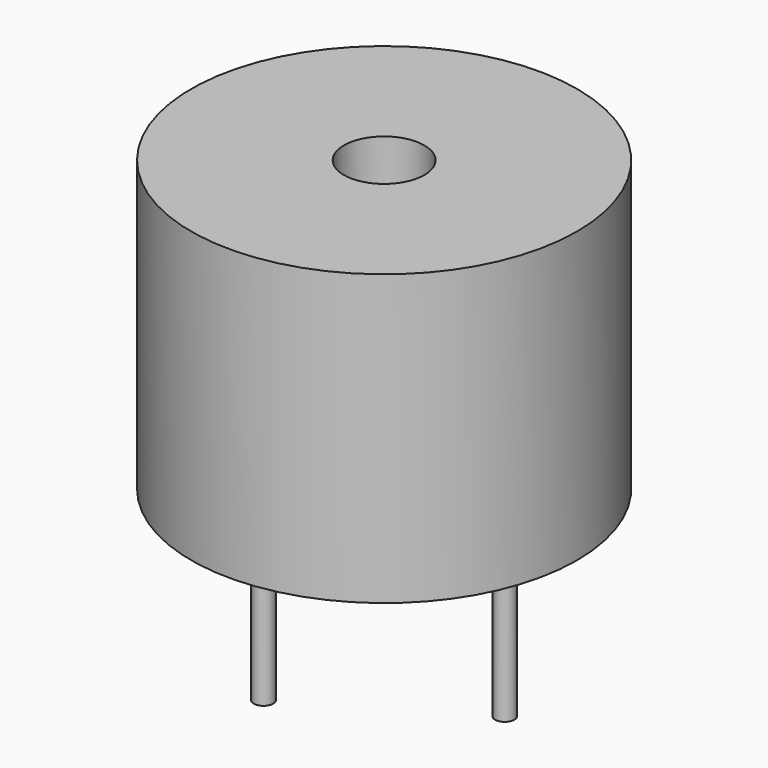
from build123d import *

# Parameters (mm, degrees)
CYLINDER_R        = 6
CYLINDER_DEPTH    = 9
SKETCH_R          = 1.25
POCKET_DEPTH      = 3
CYLINDER002_R     = 0.3
CYLINDER002_DEPTH = 5
CYLINDER001_R     = 0.3
CYLINDER001_DEPTH = 7


with BuildPart() as hole_pocket:
    # Cylinder → Cylinder (new body)
    with BuildSketch(Plane.XY):
        Circle(CYLINDER_R)
    extrude(amount=CYLINDER_DEPTH)

    # Sketch → Pocket (cut)
    with BuildSketch(Plane.XY.offset(9)):
        Circle(SKETCH_R)
    extrude(amount=-POCKET_DEPTH, mode=Mode.SUBTRACT)


with BuildPart() as cathode_cylinder:
    # Cylinder002 → Cylinder002 (new body)
    with BuildSketch(Plane(origin=(3.75, 0, -5), x_dir=(1, 0, 0), z_dir=(0, 0, 1))):
        Circle(CYLINDER002_R)
    extrude(amount=CYLINDER002_DEPTH)


with BuildPart() as buzzer:
    # Cylinder001 → Cylinder001 (new body)
    with BuildSketch(Plane(origin=(-3.75, 0, -7), x_dir=(1, 0, 0), z_dir=(0, 0, 1))):
        Circle(CYLINDER001_R)
    extrude(amount=CYLINDER001_DEPTH)

    # Fusion: union hole-pocket, cathode-cylinder
    add(hole_pocket.part)
    add(cathode_cylinder.part)


solid = buzzer.part
